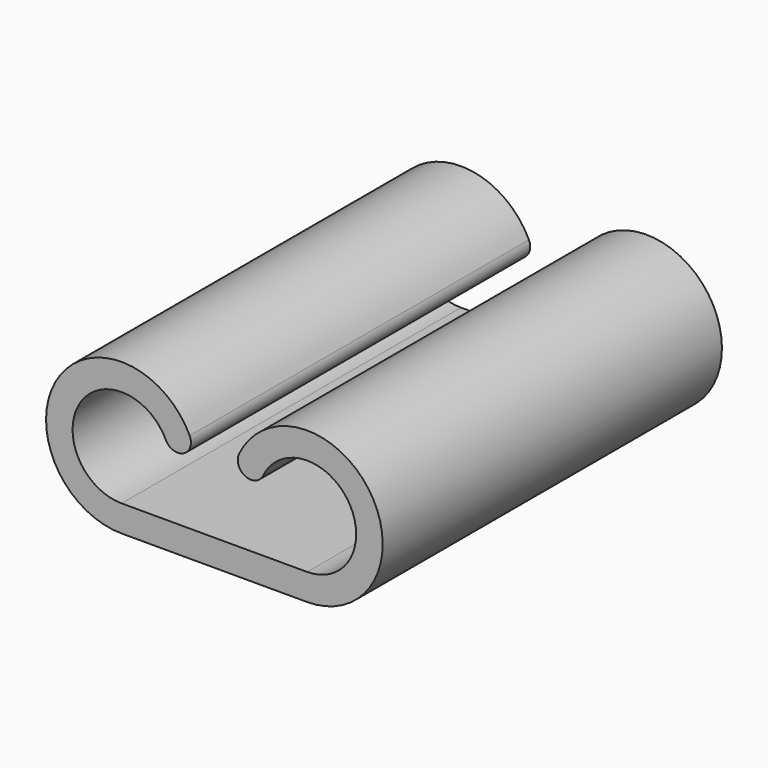
from build123d import *

# Parameters (mm, degrees)
F1_DEPTH = 20.32


with BuildPart() as f1:
    # F0 (on Front) → F1 (new body, symmetric)
    with BuildSketch(Plane.XZ):
        with BuildLine():
            Line((0, 0), (-8.89, 0))
            ThreePointArc((-8.89, 0), (-12.868977, 7.198668), (-4.656707, 6.738566))
            ThreePointArc((-4.656707, 6.738566), (-2.961339, 6.145667), (-2.36844, 7.841034))
            ThreePointArc((-2.36844, 7.841034), (-15.019776, 8.54984), (-8.89, -2.54))
            Line((-8.89, -2.54), (0, -2.54))
            Line((0, -2.54), (8.89, -2.54))
            ThreePointArc((8.89, -2.54), (15.019776, 8.54984), (2.36844, 7.841034))
            ThreePointArc((2.36844, 7.841034), (2.961339, 6.145667), (4.656707, 6.738566))
            ThreePointArc((4.656707, 6.738566), (12.868977, 7.198668), (8.89, 0))
            Line((8.89, 0), (0, 0))
        make_face()
    extrude(amount=F1_DEPTH, both=True)


solid = f1.part
